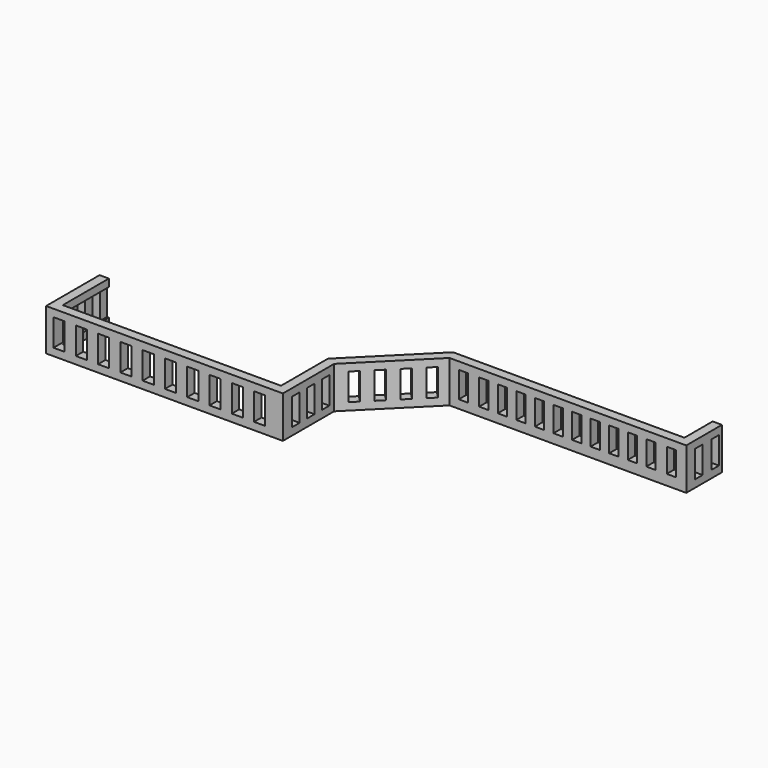
from build123d import *

# Parameters (mm, degrees)
F1_DEPTH = 1143
F2_W     = 304.8
F2_H     = 736.6
F2_W_2   = 254
F2_H_2   = 710.3017836387
F2_H_3   = 704.944739572
F2_H_4   = 700.0746995114
F2_H_5   = 695.2046594508
F2_H_6   = 690.3346193901
F2_H_7   = 685.4645793295
F2_H_8   = 680.5945392688
F2_H_9   = 675.7244992082
F2_H_10  = 670.8544591476
F2_H_11  = 665.9844190869
F2_H_12  = 661.1143790263
F2_H_13  = 655.7573349596
F3_DEPTH = 4734.56
F4_W     = 254
F4_H     = 736.6
F5_DEPTH = 584.2
F6_W     = 254
F6_H     = 736.6
F7_DEPTH = 7112
F8_W     = 254
F8_H     = 736.6
F9_DEPTH = 304.8


with BuildPart() as f1:
    # F0 (on Top) → F1 (new body)
    with BuildSketch(Plane.XY):
        Polygon((-9577.3475189209, -1334.7411094666), (-9577.3475189209, -1588.7411094666), (-9323.3475189209, -1588.7411094666), (-3100.3475189209, -1588.7411094666), (-3100.3475189209, 163.8588905334), (-1347.747515396, 1916.4588940583), (5129.252484604, 1916.4588940583), (5129.252484604, 3135.6588940583), (4875.252484604, 3135.6588940583), (4875.252484604, 2170.4588940583), (-1452.9577602388, 2170.4588940583), (-3354.3475189209, 269.0691353762), (-3354.3475189209, -1334.7411094666), (-9323.3475189209, -1334.7411094666), (-9323.3475189209, 240.0588905334), (-9577.3475189209, 240.0588905334), align=None)
    extrude(amount=F1_DEPTH)

    # F2 (on face) → F3 (cut)
    with BuildSketch(Plane.XZ.offset(1588.7411094666)):
        with Locations((-9221.7475189209, 571.5)):
            Rectangle(F2_W, F2_H)
        with Locations((-8612.1475189209, 571.5)):
            Rectangle(F2_W, F2_H)
        with Locations((-8002.5475189209, 571.5)):
            Rectangle(F2_W, F2_H)
        with Locations((-7392.9475189209, 571.5)):
            Rectangle(F2_W, F2_H)
        with Locations((-6783.3475189209, 571.5)):
            Rectangle(F2_W, F2_H)
        with Locations((-6173.7475189209, 571.5)):
            Rectangle(F2_W, F2_H)
        with Locations((-5564.1475189209, 571.5)):
            Rectangle(F2_W, F2_H)
        with Locations((-4954.5475189209, 571.5)):
            Rectangle(F2_W, F2_H)
        with Locations((-4344.9475189209, 571.5)):
            Rectangle(F2_W, F2_H)
        with Locations((-3735.3475189209, 571.5)):
            Rectangle(F2_W, F2_H)
        with Locations((-966.747515396, 584.6491081806)):
            Rectangle(F2_W_2, F2_H_2)
        with Locations((-407.947515396, 587.327630214)):
            Rectangle(F2_W_2, F2_H_3)
        with Locations((100.052484604, 589.7626502443)):
            Rectangle(F2_W_2, F2_H_4)
        with Locations((608.052484604, 592.1976702746)):
            Rectangle(F2_W_2, F2_H_5)
        with Locations((1116.052484604, 594.6326903049)):
            Rectangle(F2_W_2, F2_H_6)
        with Locations((1624.052484604, 597.0677103353)):
            Rectangle(F2_W_2, F2_H_7)
        with Locations((2132.052484604, 599.5027303656)):
            Rectangle(F2_W_2, F2_H_8)
        with Locations((2640.052484604, 601.9377503959)):
            Rectangle(F2_W_2, F2_H_9)
        with Locations((3148.052484604, 604.3727704262)):
            Rectangle(F2_W_2, F2_H_10)
        with Locations((3656.052484604, 606.8077904565)):
            Rectangle(F2_W_2, F2_H_11)
        with Locations((4164.052484604, 609.2428104869)):
            Rectangle(F2_W_2, F2_H_12)
        with Locations((4722.852484604, 611.9213325202)):
            Rectangle(F2_W_2, F2_H_13)
    extrude(amount=-F3_DEPTH, mode=Mode.SUBTRACT)

    # F4 (on face) → F5 (cut)
    with BuildSketch(Plane(origin=(-1632.1032047272, 1632.1032047272, 0), x_dir=(0.7071067812, 0.7071067812, 0), z_dir=(0.7071067812, -0.7071067812, 0))):
        with Locations((-1644.61102201, 571.5)):
            Rectangle(F4_W, F4_H)
        with Locations((-1085.81102201, 571.5)):
            Rectangle(F4_W, F4_H)
        with Locations((-527.01102201, 571.5)):
            Rectangle(F4_W, F4_H)
        with Locations((31.78897799, 571.5)):
            Rectangle(F4_W, F4_H)
    extrude(amount=-F5_DEPTH, mode=Mode.SUBTRACT)

    # F6 (on face) → F7 (cut)
    with BuildSketch(Plane(origin=(-9577.3475189209, 0, 0), x_dir=(0, -1, 0), z_dir=(-1, 0, 0))):
        with Locations((127, 571.5)):
            Rectangle(F6_W, F6_H)
        with Locations((635, 571.5)):
            Rectangle(F6_W, F6_H)
        with Locations((1143, 571.5)):
            Rectangle(F6_W, F6_H)
    extrude(amount=-F7_DEPTH, mode=Mode.SUBTRACT)

    # F8 (on face) → F9 (cut)
    with BuildSketch(Plane.YZ.offset(5129.252484604)):
        with Locations((2348.2588940583, 571.5)):
            Rectangle(F8_W, F8_H)
        Polygon((2845.7119464874, 939.8), (2780.0588940583, 939.8), (2780.0588940583, 203.2), (2845.7119464874, 203.2), (3011.191368103, 203.2), (3034.0588940583, 203.2), (3034.0588940583, 939.8), (3011.191368103, 939.8), align=None)
    extrude(amount=-F9_DEPTH, mode=Mode.SUBTRACT)


solid = f1.part
